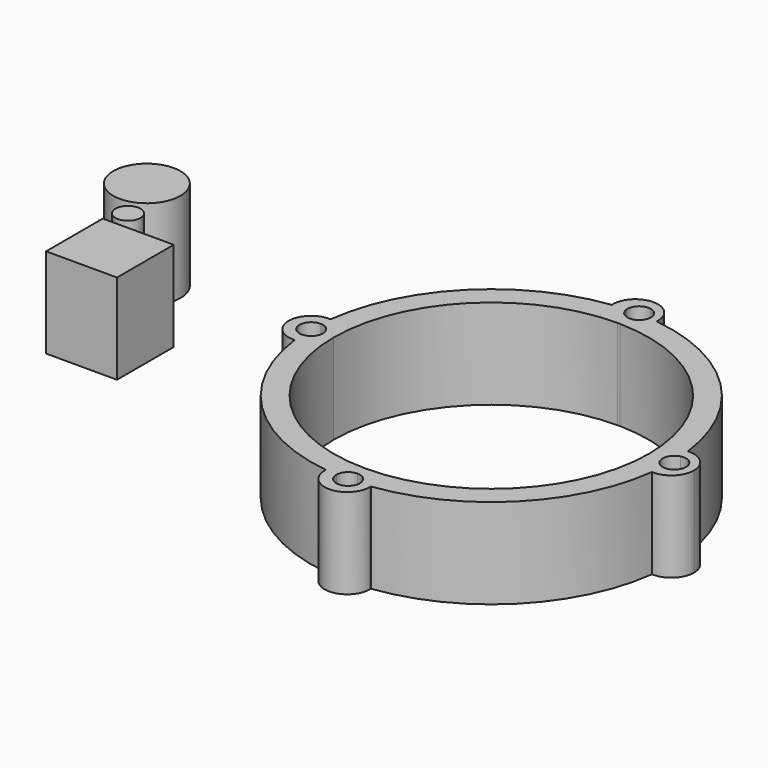
from build123d import *

# Parameters (mm, degrees)
F1_DEPTH = 12.7
F0_R     = 4.7343044343
F0_R_2   = 1.7736738102
F0_W     = 10
F0_H     = 10


with BuildPart() as f1:
    # F0 (on Top) → F1 (new body)
    with BuildSketch(Plane.XY):
        with BuildLine():
            ThreePointArc((25.3558840705, -1.4963766246), (24.085578025, 0.1030713696), (25.3421485002, 1.7133328318))
            ThreePointArc((25.3421485002, 1.7133328318), (25.2823312082, 2.4420746672), (25.2015625, 3.1687927604))
            ThreePointArc((25.2015625, 3.1687927604), (23.0858409667, 2.1737739001), (22.225, 0))
            ThreePointArc((22.225, 0), (23.0858409667, -2.1737739001), (25.2015625, -3.1687927604))
            ThreePointArc((25.2015625, -3.1687927604), (25.2925501851, -2.3338605645), (25.3558840705, -1.4963766246))
        make_face()
        with BuildLine():
            ThreePointArc((25.2015625, 3.1687927604), (25.2823312082, 2.4420746672), (25.3421485002, 1.7133328318))
            ThreePointArc((25.3421485002, 1.7133328318), (26.755047766, 1.4095555078), (27.3875629077, 0.1101365633))
            ThreePointArc((27.3875629077, 0.1101365633), (26.7605990984, -1.1849120381), (25.3558840705, -1.4963766246))
            ThreePointArc((25.3558840705, -1.4963766246), (25.2925501851, -2.3338605645), (25.2015625, -3.1687927604))
            ThreePointArc((25.2015625, -3.1687927604), (27.5737739001, -2.3141590333), (28.575, 0))
            ThreePointArc((28.575, 0), (27.5737739001, 2.3141590333), (25.2015625, 3.1687927604))
        make_face()
        with BuildLine():
            ThreePointArc((22.225, 0), (23.0858409667, 2.1737739001), (25.2015625, 3.1687927604))
            ThreePointArc((25.2015625, 3.1687927604), (17.9605122421, 17.9605122421), (3.1687927604, 25.2015625))
            ThreePointArc((3.1687927604, 25.2015625), (2.3168608274, 23.2291059661), (0.4039338373, 22.2507997118))
            Line((0.4039338373, 22.2507997118), (0.4037487557, 22.221332362))
            ThreePointArc((0.4037487557, 22.221332362), (15.8575524766, 15.5720472146), (22.225, 0))
        make_face()
        with BuildLine():
            ThreePointArc((3.1687927604, -25.2015625), (17.9605122421, -17.9605122421), (25.2015625, -3.1687927604))
            ThreePointArc((25.2015625, -3.1687927604), (23.0858409667, -2.1737739001), (22.225, 0))
            ThreePointArc((22.225, 0), (15.7594350485, -15.671337912), (0.124587676, -22.2246507939))
            Line((0.124587676, -22.2246507939), (0.1245701278, -22.2274446761))
            ThreePointArc((0.1245701278, -22.2274446761), (2.2187618137, -23.1289383509), (3.1687927604, -25.2015625))
        make_face()
        with BuildLine():
            ThreePointArc((0.4039338373, 22.2507997118), (2.3168608274, 23.2291059661), (3.1687927604, 25.2015625))
            ThreePointArc((3.1687927604, 25.2015625), (2.6155497493, 25.2649737682), (2.0610495634, 25.3162413225))
            ThreePointArc((2.0610495634, 25.3162413225), (1.5081301648, 24.2889839746), (0.414189801, 23.8836791504))
            Line((0.414189801, 23.8836791504), (0.4039338373, 22.2507997118))
        make_face()
        with BuildLine():
            ThreePointArc((2.0610495634, 25.3162413225), (2.6155497493, 25.2649737682), (3.1687927604, 25.2015625))
            ThreePointArc((3.1687927604, 25.2015625), (3.1734478107, 25.3007327204), (3.175, 25.4))
            ThreePointArc((3.175, 25.4), (-0.0992672796, 28.5734478107), (-3.1687927604, 25.2015625))
            ThreePointArc((-3.1687927604, 25.2015625), (-2.1951707638, 25.3049644402), (-1.218287002, 25.3707661843))
            ThreePointArc((-1.218287002, 25.3707661843), (0.3425178179, 27.1836069196), (2.0755593736, 25.5346465856))
            ThreePointArc((2.0755593736, 25.5346465856), (2.0719279273, 25.4252032286), (2.0610495634, 25.3162413225))
        make_face()
        with BuildLine():
            ThreePointArc((3.175, -25.4), (3.1734478107, -25.3007327204), (3.1687927604, -25.2015625))
            ThreePointArc((3.1687927604, -25.2015625), (2.463027482, -25.2802985667), (1.7553369221, -25.3392737128))
            ThreePointArc((1.7553369221, -25.3392737128), (1.7556720559, -25.3584772275), (1.7557837723, -25.3776833415))
            ThreePointArc((1.7557837723, -25.3776833415), (0.0923942372, -27.0286368537), (-1.5460302791, -25.3529049692))
            ThreePointArc((-1.5460302791, -25.3529049692), (-2.3586257035, -25.2902527625), (-3.1687927604, -25.2015625))
            ThreePointArc((-3.1687927604, -25.2015625), (-0.0992672796, -28.5734478107), (3.175, -25.4))
        make_face()
        with BuildLine():
            ThreePointArc((1.7553369221, -25.3392737128), (2.463027482, -25.2802985667), (3.1687927604, -25.2015625))
            ThreePointArc((3.1687927604, -25.2015625), (2.2187618137, -23.1289383509), (0.1245701278, -22.2274446761))
            Line((0.1245701278, -22.2274446761), (0.1151533449, -23.7267159063))
            ThreePointArc((0.1151533449, -23.7267159063), (1.2622602266, -24.2003774094), (1.7553369221, -25.3392737128))
        make_face()
        with BuildLine():
            ThreePointArc((0, 22.225), (0.2023784636, 22.2314564927), (0.4039338373, 22.2507997118))
            Line((0.4039338373, 22.2507997118), (0.414189801, 23.8836791504))
            ThreePointArc((0.414189801, 23.8836791504), (-0.6872579246, 24.3141289514), (-1.218287002, 25.3707661843))
            ThreePointArc((-1.218287002, 25.3707661843), (-2.1951707638, 25.3049644402), (-3.1687927604, 25.2015625))
            ThreePointArc((-3.1687927604, 25.2015625), (-2.1737739001, 23.0858409667), (0, 22.225))
        make_face()
        with BuildLine():
            Line((0.1151533449, -23.7267159063), (0.1245701278, -22.2274446761))
            ThreePointArc((0.1245701278, -22.2274446761), (0.0622970766, -22.2256112282), (3.94e-08, -22.225))
            ThreePointArc((3.94e-08, -22.225), (-2.1737738858, -23.0858409533), (-3.1687927604, -25.2015625))
            ThreePointArc((-3.1687927604, -25.2015625), (-2.3586257035, -25.2902527625), (-1.5460302791, -25.3529049692))
            ThreePointArc((-1.5460302791, -25.3529049692), (-1.0501565894, -24.197889393), (0.1151533449, -23.7267159063))
        make_face()
        with BuildLine():
            ThreePointArc((-22.225, 0), (-15.7154482119, 15.7154482119), (0, 22.225))
            ThreePointArc((0, 22.225), (-2.1737739001, 23.0858409667), (-3.1687927604, 25.2015625))
            ThreePointArc((-3.1687927604, 25.2015625), (-17.9605122421, 17.9605122421), (-25.2015625, 3.1687927604))
            ThreePointArc((-25.2015625, 3.1687927604), (-23.0858409667, 2.1737739001), (-22.225, 0))
        make_face()
        with BuildLine():
            ThreePointArc((-3.1687927604, -25.2015625), (-2.1737738858, -23.0858409533), (3.94e-08, -22.225))
            ThreePointArc((3.94e-08, -22.225), (-15.715448198, -15.7154482258), (-22.225, 0))
            ThreePointArc((-22.225, 0), (-23.0858409667, -2.1737739001), (-25.2015625, -3.1687927604))
            ThreePointArc((-25.2015625, -3.1687927604), (-17.9605122421, -17.9605122421), (-3.1687927604, -25.2015625))
        make_face()
        with BuildLine():
            ThreePointArc((-25.2015625, -3.1687927604), (-23.0858409667, -2.1737739001), (-22.225, 0))
            ThreePointArc((-22.225, 0), (-23.0858409667, 2.1737739001), (-25.2015625, 3.1687927604))
            ThreePointArc((-25.2015625, 3.1687927604), (-25.2853566469, 2.4105474978), (-25.3463425, 1.6501278353))
            ThreePointArc((-25.3463425, 1.6501278353), (-24.2137475959, 1.1483058102), (-23.749, 0))
            ThreePointArc((-23.749, 0), (-24.2137475959, -1.1483058102), (-25.3463425, -1.6501278353))
            ThreePointArc((-25.3463425, -1.6501278353), (-25.2853566469, -2.4105474978), (-25.2015625, -3.1687927604))
        make_face()
        with BuildLine():
            ThreePointArc((-25.3463425, 1.6501278353), (-25.2853566469, 2.4105474978), (-25.2015625, 3.1687927604))
            ThreePointArc((-25.2015625, 3.1687927604), (-28.575, 0), (-25.2015625, -3.1687927604))
            ThreePointArc((-25.2015625, -3.1687927604), (-25.2853566469, -2.4105474978), (-25.3463425, -1.6501278353))
            ThreePointArc((-25.3463425, -1.6501278353), (-27.051, 0), (-25.3463425, 1.6501278353))
        make_face()
    extrude(amount=F1_DEPTH)


with BuildPart() as f1b:
    # F0 (on Top) → F1, piece 2 (new body)
    with BuildSketch(Plane.XY):
        with Locations((-61.2407773733, 15.8236231655)):
            Circle(F0_R)
    extrude(amount=F1_DEPTH)


with BuildPart() as f1c:
    # F0 (on Top) → F1, piece 3 (new body)
    with BuildSketch(Plane.XY):
        with Locations((-58.408241719, 8.9625855908)):
            Circle(F0_R_2)
    extrude(amount=F1_DEPTH)


with BuildPart() as f1d:
    # F0 (on Top) → F1, piece 4 (new body)
    with BuildSketch(Plane.XY):
        with Locations((-54.7930364311, 1.2476359215)):
            Rectangle(F0_W, F0_H)
    extrude(amount=F1_DEPTH)


solid = Compound([f1.part, f1b.part, f1c.part, f1d.part])
